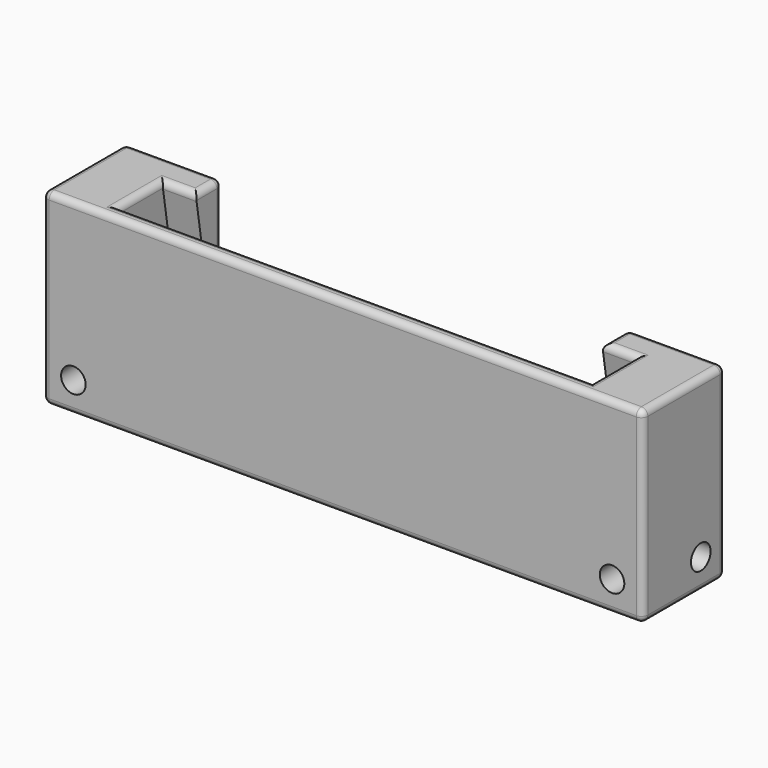
from build123d import *

# Parameters (mm, degrees)
F0_W      = 63
F0_H      = 7.7795209363
F1_DEPTH  = 29.1
F4_START  = 5
F3_W      = 73.4
F3_H      = 8.5
F4_DEPTH  = 34.9
F0_H_2    = 17.5400283188
F5_DEPTH  = 44.7
F6_R      = 1
F7_R      = 1.9
F8_DEPTH  = 12.9
F9_R      = 1.9
F10_DEPTH = 8.4
F11_START = -79.5
F11_DEPTH = 35.3


with BuildPart() as f1:
    # F0 (on Top) → F1 (new body)
    with BuildSketch(Plane.XY):
        Polygon((-31.5, 0), (-46.5, 0), (-46.5, -16), (46.5, -16), (46.5, 0), (31.5, 0), (31.5, -7.7795209363), (-31.5, -7.7795209363), align=None)
        with Locations((0, -3.8897604682)):
            Rectangle(F0_W, F0_H)
    extrude(amount=F1_DEPTH)

    # F3 (on line) → F4 (cut)
    with BuildSketch(Plane(origin=(0, -0.3915478696, 2.472135955), x_dir=(1, 0, 0), z_dir=(0, -0.156434465, 0.9876883406)).offset(F4_START)):
        with Locations((0, -4.75)):
            Rectangle(F3_W, F3_H)
    extrude(amount=F4_DEPTH, mode=Mode.SUBTRACT)

    # F0 (on Top) → F5 (cut)
    with BuildSketch(Plane.XY):
        with Locations((0, 8.7700141594)):
            Rectangle(F0_W, F0_H_2)
        with Locations((0, -3.8897604682)):
            Rectangle(F0_W, F0_H)
    extrude(amount=F5_DEPTH, mode=Mode.SUBTRACT)

    # F6
    f6_edges = [f1.edges().sort_by_distance(p)[0] for p in [
        (-39, 0, 29.1),
        (-31.5, -2.55761, 29.1),
        (-34.1, -5.11522, 29.1),
        (-36.7, -9.418197, 29.1),
        (0, -13.721173, 29.1),
        (36.7, -9.418197, 29.1),
        (34.1, -5.11522, 29.1),
        (31.5, -2.55761, 29.1),
        (39, 0, 29.1),
        (46.5, -8, 29.1),
        (0, -16, 29.1),
        (-46.5, -8, 29.1),
        (-46.5, 0, 14.55),
        (-46.5, -16, 14.55),
        (-46.5, -8, 0),
        (46.5, -16, 14.55),
        (0, -16, 0),
        (46.5, 0, 14.55),
        (46.5, -8, 0),
        (39, 0, 0),
        (31.5, 0, 14.55),
        (-31.5, 0, 14.55),
        (-39, 0, 0),
        (-31.5, -3.88976, 0),
        (0, -7.779521, 0),
        (31.5, -3.88976, 0),
    ]]
    fillet(f6_edges, radius=F6_R)

    # F7 (on face) → F8 (cut)
    with BuildSketch(Plane.YZ.offset(46.5)):
        with Locations((-4.75, 4.75)):
            Circle(F7_R)
    extrude(amount=-F8_DEPTH, mode=Mode.SUBTRACT)

    # F9 (on face) → F10 (cut)
    with BuildSketch(Plane.XZ.offset(16)):
        with Locations((41.75, 4.75)):
            Circle(F9_R)
        with Locations((-41.75, 4.75)):
            Circle(F9_R)
    extrude(amount=-F10_DEPTH, mode=Mode.SUBTRACT)

    # F7 (on face) → F11 (cut)
    with BuildSketch(Plane.YZ.offset(46.5).offset(F11_START)):
        with Locations((-4.75, 4.75)):
            Circle(F7_R)
    extrude(amount=-F11_DEPTH, mode=Mode.SUBTRACT)


solid = f1.part
